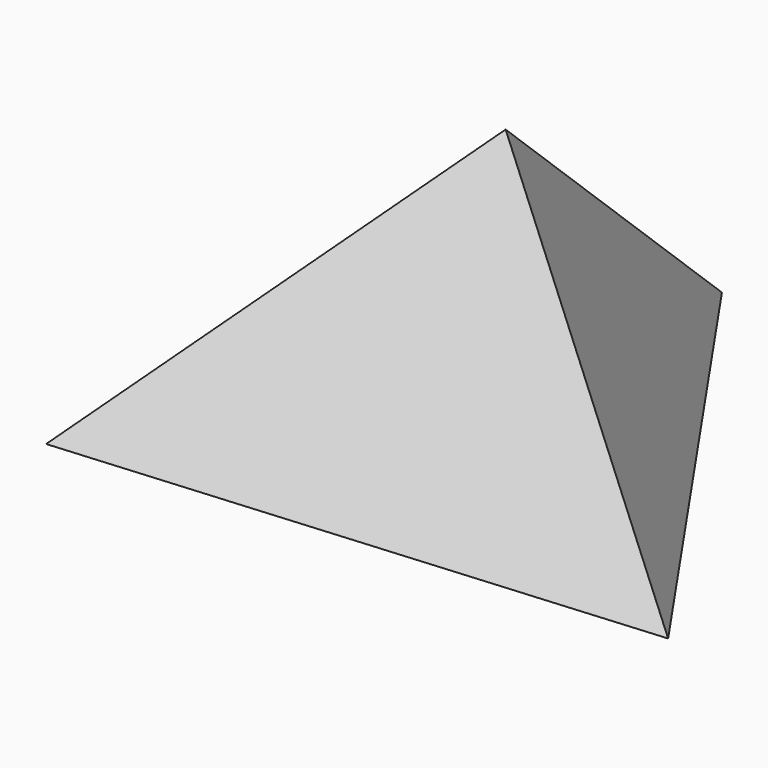
from build123d import *


with BuildPart() as f3:
    # F0 (on Top) → F3 section 0
    with BuildSketch(Plane.XY, mode=Mode.PRIVATE) as f3_s0:
        Polygon((-9.014708, 113.197547), (-93.524598, -64.405739), (102.539305, -48.791808), align=None)
    loft([f3_s0.sketch, Vertex(9.019599, 0, 100)])


solid = f3.part
